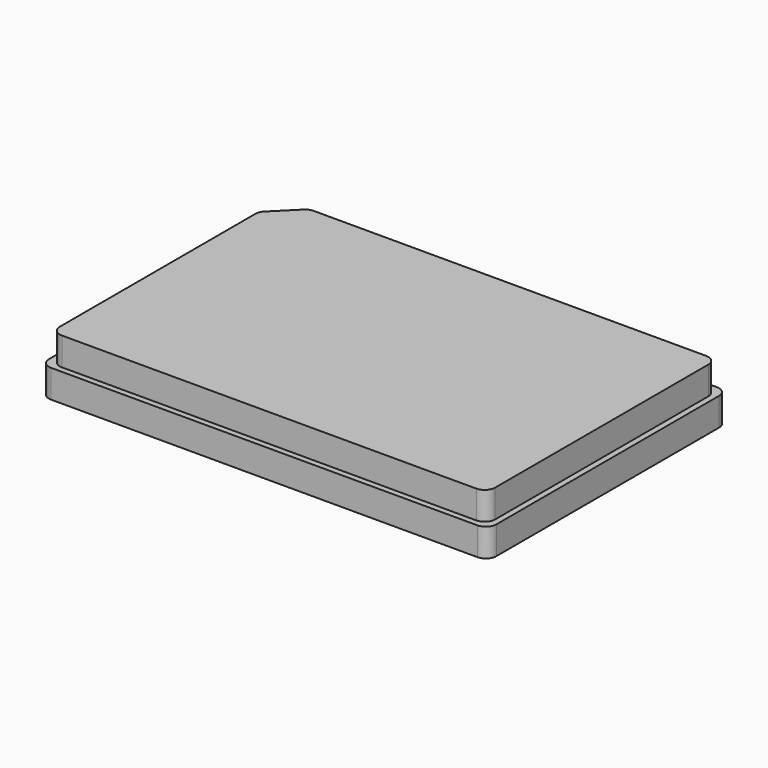
from build123d import *

# Parameters (mm, degrees)
F0_W     = 127.76
F0_H     = 85.48
F1_DEPTH = 8
F3_W     = 124.36
F3_H     = 82.08
F4_DEPTH = 8
F5_SIZE  = 8
F6_R     = 3
F7_R     = 5.125
F8_DEPTH = 10


with BuildPart() as f1:
    # F0 (on Top) → F1 (new body)
    with BuildSketch(Plane.XY):
        Rectangle(F0_W, F0_H)
    extrude(amount=F1_DEPTH)

    # F3 (on face) → F4 (join)
    with BuildSketch(Plane.XY.offset(8)):
        Rectangle(F3_W, F3_H)
    extrude(amount=F4_DEPTH)

    # F5
    f5_edges = [f1.edges().sort_by_distance(p)[0] for p in [
        (-62.18, 41.04, 12),
    ]]
    chamfer(f5_edges, length=F5_SIZE)

    # F6
    f6_edges = [f1.edges().sort_by_distance(p)[0] for p in [
        (-63.88, 42.74, 4),
        (-63.88, -42.74, 4),
        (63.88, -42.74, 4),
        (63.88, 42.74, 4),
        (-62.18, 33.04, 12),
        (-62.18, -41.04, 12),
        (62.18, -41.04, 12),
        (62.18, 41.04, 12),
        (-54.18, 41.04, 12),
    ]]
    fillet(f6_edges, radius=F6_R)

    # F7 (on face) → F8 (cut)
    with BuildSketch(Plane(origin=(0, 0, 0), x_dir=(1, 0, 0), z_dir=(0, 0, -1))):
        Circle(F7_R)
        with Locations((48.88, 27.74)):
            Circle(F7_R)
        with Locations((48.88, -27.74)):
            Circle(F7_R)
        with Locations((-48.88, -27.74)):
            Circle(F7_R)
        with Locations((-48.88, 27.74)):
            Circle(F7_R)
    extrude(amount=-F8_DEPTH, mode=Mode.SUBTRACT)


solid = f1.part
